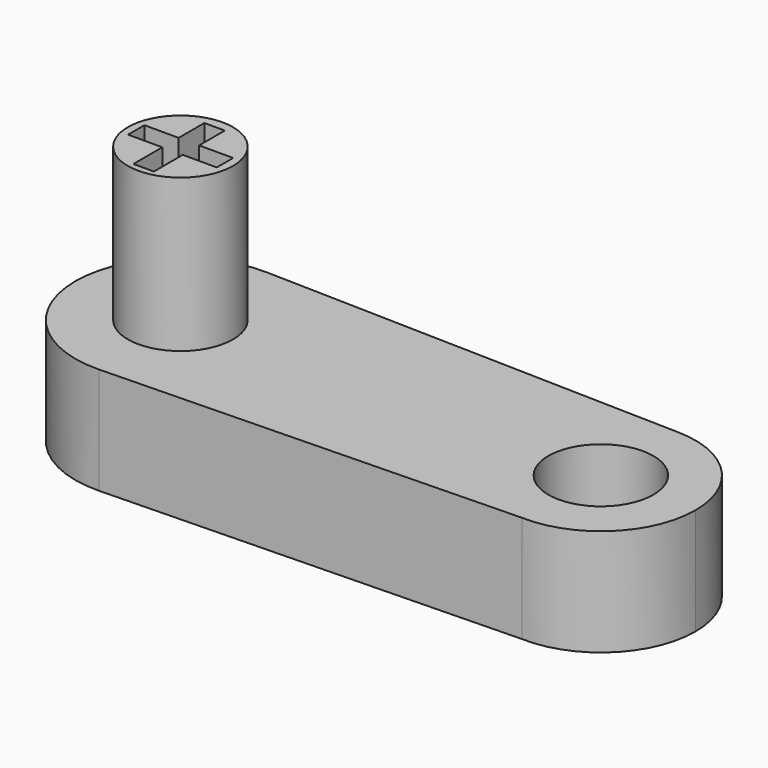
from build123d import *

# Parameters (mm, degrees)
F0_R     = 12.5
F1_DEPTH = 25.4
F2_DEPTH = 61.722


with BuildPart() as f1:
    # F0 (on Top) → F1 (new body)
    with BuildSketch(Plane.XY):
        with BuildLine():
            ThreePointArc((0.635351, -24.991925), (17.900891, -17.451593), (25, 0))
            ThreePointArc((25, 0), (17.897276, 17.4553), (0.625, 24.992186))
            ThreePointArc((0.625, 24.992186), (-24.999999, -0.005177), (0.635351, -24.991925))
        make_face()
        Circle(F0_R, mode=Mode.SUBTRACT)
        with BuildLine():
            ThreePointArc((0.625, 24.992186), (17.897276, 17.4553), (25, 0))
            ThreePointArc((25, 0), (17.900891, -17.451593), (0.635351, -24.991925))
            Line((0.635351, -24.991925), (99.206847, -22.486016))
            ThreePointArc((99.206847, -22.486016), (77.510213, 0.677835), (100.5625, 22.492968))
            Line((100.5625, 22.492968), (0.625, 24.992186))
        make_face()
        with BuildLine():
            ThreePointArc((122.5, 0), (116.107549, 15.70977), (100.5625, 22.492968))
            ThreePointArc((100.5625, 22.492968), (77.510213, 0.677835), (99.206847, -22.486016))
            ThreePointArc((99.206847, -22.486016), (115.626965, -16.187896), (122.5, 0))
        make_face()
        with Locations((100, 0)):
            Circle(F0_R, mode=Mode.SUBTRACT)
    extrude(amount=F1_DEPTH)

    # F0 (on Top) → F2 (join)
    with BuildSketch(Plane.XY):
        Circle(F0_R)
        Polygon((-2.443647, 2.525975), (-2.443647, 10.170371), (2.427822, 10.170371), (2.427822, 2.525975), (10.520946, 2.525975), (10.520946, -2.345494), (2.427822, -2.345494), (2.427822, -10.938356), (-2.443647, -10.938356), (-2.443647, -2.345494), (-10.587781, -2.345494), (-10.587781, 2.525975), align=None, mode=Mode.SUBTRACT)
    extrude(amount=F2_DEPTH)


solid = f1.part
